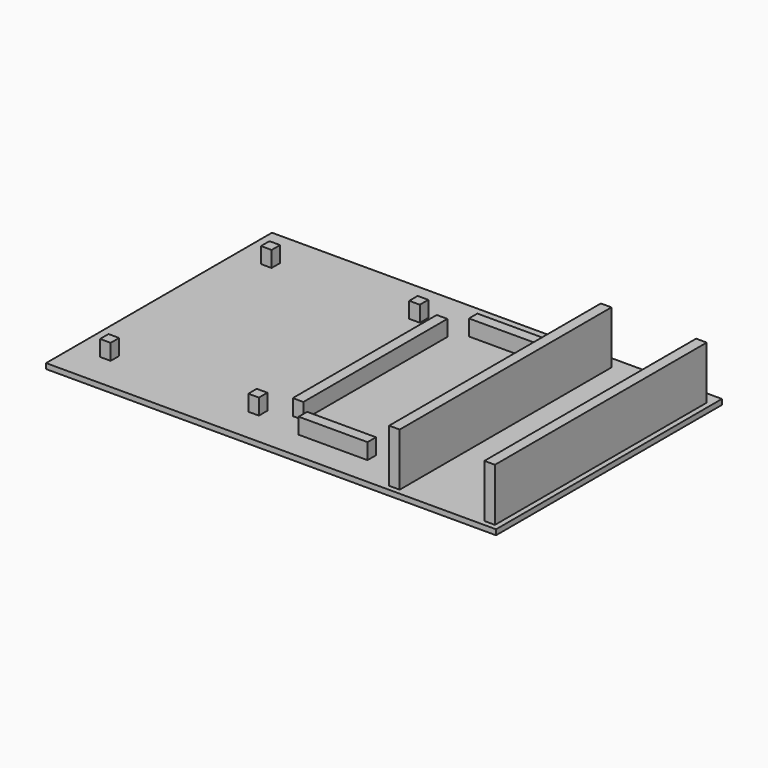
from build123d import *

# Parameters (mm, degrees)
SKETCH_W      = 85
SKETCH_H      = 53.34
PAD_DEPTH     = 1
SKETCH002_W   = 2
SKETCH002_H   = 50
PAD001_DEPTH  = 10
SKETCH001_W   = 2
SKETCH001_H   = 2
SKETCH001_W_2 = 13
SKETCH001_H_2 = 34
PAD002_DEPTH  = 3


with BuildPart() as pad:
    # Sketch → Pad (new body)
    with BuildSketch(Plane.XY):
        with Locations((42.5, 26.67)):
            Rectangle(SKETCH_W, SKETCH_H)
    extrude(amount=PAD_DEPTH)


with BuildPart() as pad001:
    # Pad001 base: copy of Pad
    add(pad.part)

    # Sketch002 → Pad001 (new body)
    with BuildSketch(Plane.XY.offset(1)):
        with Locations((65, 26)):
            Rectangle(SKETCH002_W, SKETCH002_H)
        with Locations((83, 26)):
            Rectangle(SKETCH002_W, SKETCH002_H)
    extrude(amount=PAD001_DEPTH)


with BuildPart() as pad002:
    # Pad002 base: copy of Pad
    add(pad.part)

    # Sketch001 → Pad002 (new body)
    with BuildSketch(Plane.XY.offset(1)):
        with Locations((6, 45.5)):
            Rectangle(SKETCH001_W, SKETCH001_H)
        with Locations((6, 7.5)):
            Rectangle(SKETCH001_W, SKETCH001_H)
        with Locations((34, 45.5)):
            Rectangle(SKETCH001_W, SKETCH001_H)
        with Locations((34, 7.5)):
            Rectangle(SKETCH001_W, SKETCH001_H)
        with Locations((49.9, 6.4)):
            Rectangle(SKETCH001_W_2, SKETCH001_H)
        with Locations((49.9, 46.6)):
            Rectangle(SKETCH001_W_2, SKETCH001_H)
        Polygon((41, 43.5), (39, 43.5), (39, 9.5), (41, 9.5), (41, 26.5), align=None)
        with Locations((59.8, 26.5)):
            Rectangle(SKETCH001_W, SKETCH001_H_2)
    extrude(amount=PAD002_DEPTH)


solid = Compound([pad001.part, pad002.part])
